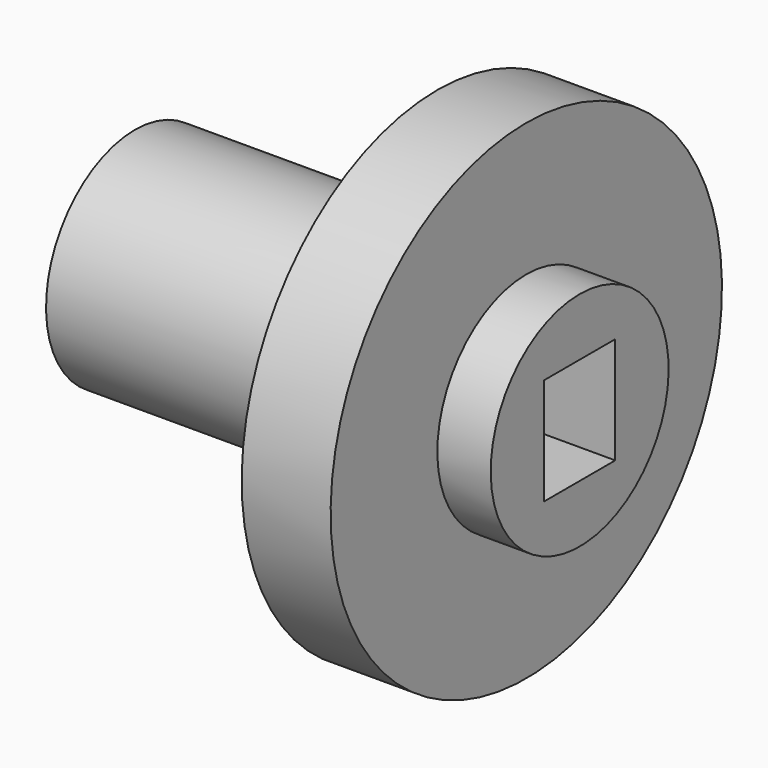
from build123d import *

# Parameters (mm, degrees)
F2_W     = 20
F2_H     = 24
F3_DEPTH = 100.001


with BuildPart() as f1:
    # F0 (on Front) → F1 (revolve)
    with BuildSketch(Plane.XZ):
        Polygon((0, 25), (0, 0), (100, 0), (100, 25), (88, 25), (88, 55), (68, 55), (68, 25), align=None)
    revolve(axis=Axis((50, 0, 0), (1, 0, 0)))

    # F2 (on face) → F3 (cut, through all)
    with BuildSketch(Plane.YZ.offset(100)):
        Rectangle(F2_W, F2_H)
    extrude(amount=-F3_DEPTH, mode=Mode.SUBTRACT)


solid = f1.part
